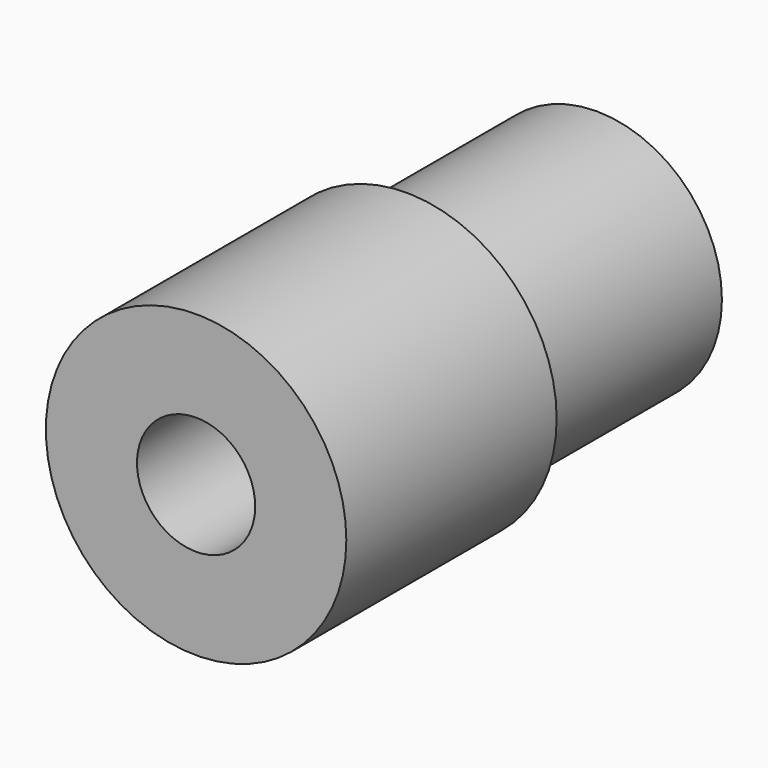
from build123d import *

# Parameters (mm, degrees)
F0_R     = 15.24
F0_R_2   = 5.9944
F1_DEPTH = 50.8
F2_R     = 18.435252
F2_R_2   = 12.7
F3_DEPTH = 24.13
F4_R     = 8.89
F5_DEPTH = 3.81


with BuildPart() as f1:
    # F0 (on Front) → F1 (new body)
    with BuildSketch(Plane.XZ):
        Circle(F0_R)
        Circle(F0_R_2, mode=Mode.SUBTRACT)
    extrude(amount=F1_DEPTH)

    # F2 (on face) → F3 (cut)
    with BuildSketch(Plane(origin=(0, 0, 0), x_dir=(-1, 0, 0), z_dir=(0, 1, 0))):
        Circle(F2_R)
        Circle(F2_R_2, mode=Mode.SUBTRACT)
    extrude(amount=-F3_DEPTH, mode=Mode.SUBTRACT)

    # F4 (on face) → F5 (cut)
    with BuildSketch(Plane(origin=(0, 0, 0), x_dir=(-1, 0, 0), z_dir=(0, 1, 0))):
        Circle(F4_R)
    extrude(amount=-F5_DEPTH, mode=Mode.SUBTRACT)


solid = f1.part
